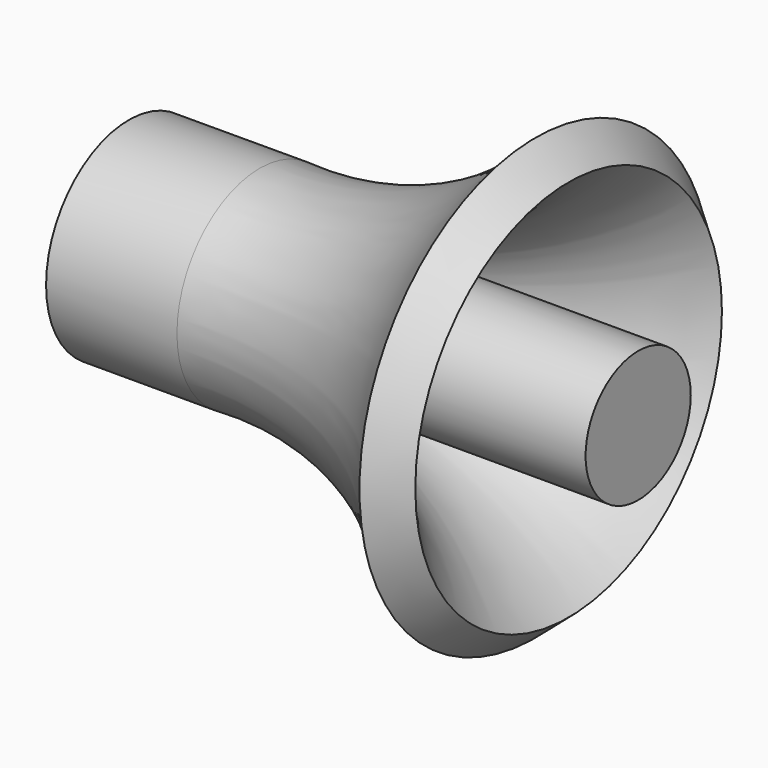
from build123d import *

# Parameters (mm, degrees)
F1_FACE_R = 11.855998
F2_DEPTH  = 15


with BuildPart() as f1:
    # F0 (on Top) → F1 (revolve)
    with BuildSketch(Plane.XY):
        with BuildLine():
            Line((0, 6.848679), (0, 0))
            Line((0, 0), (43.378383, 0))
            Line((43.378383, 0), (43.378383, 2.531673))
            Line((43.378383, 2.531673), (43.378383, 7.531673))
            Line((43.378383, 7.531673), (10.226769, 7.527062))
            ThreePointArc((10.226769, 7.527062), (24.044458, 12.602389), (35.404081, 21.964357))
            Line((35.404081, 21.964357), (31.621624, 25.234375))
            ThreePointArc((31.621624, 25.234375), (17.368897, 14.862439), (0, 11.855998))
            Line((0, 11.855998), (0, 6.848679))
        make_face()
    revolve(axis=Axis((21.689191, 0, 0), (-1, 0, 0)))

    # F1_face (on face) → F2 (join)
    with BuildSketch(Plane(origin=(0, 0, 0), x_dir=(0, -1, 0), z_dir=(-1, 0, 0))):
        Circle(F1_FACE_R)
    extrude(amount=F2_DEPTH)


solid = f1.part
